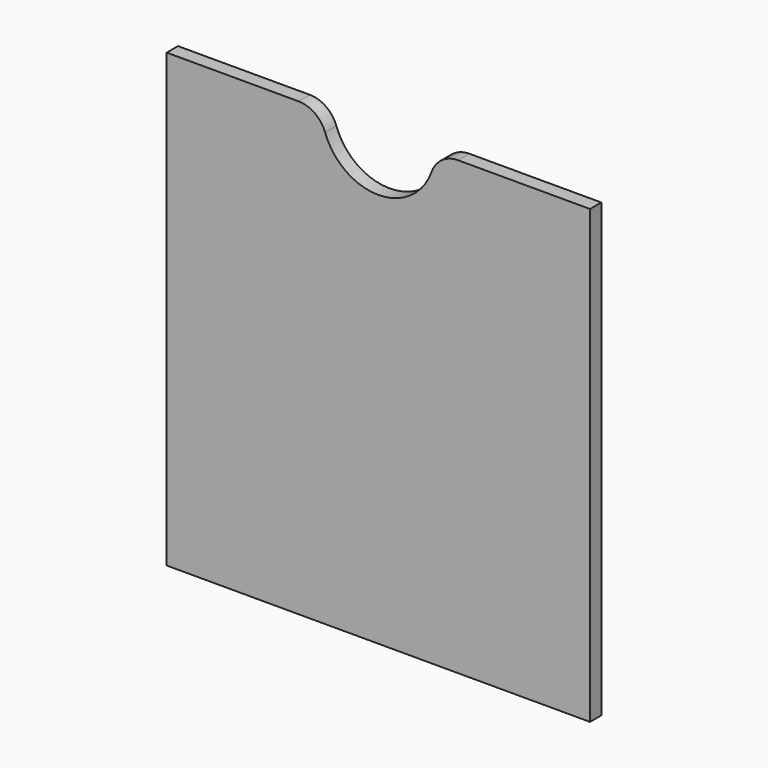
from build123d import *

# Parameters (mm, degrees)
F1_DEPTH = 3.175


with BuildPart() as f1:
    # F0 (on Front) → F1 (new body)
    with BuildSketch(Plane.XZ):
        with BuildLine():
            Line((0, 101.6), (0, 0))
            Line((0, 0), (95.25, 0))
            Line((95.25, 0), (95.25, 101.6))
            Line((95.25, 101.6), (65.585512, 101.6))
            ThreePointArc((65.585512, 101.6), (61.919338, 100.434753), (59.598675, 97.366667))
            ThreePointArc((59.598675, 97.366667), (47.625, 88.9), (35.651325, 97.366667))
            ThreePointArc((35.651325, 97.366667), (33.330662, 100.434753), (29.664488, 101.6))
            Line((29.664488, 101.6), (0, 101.6))
        make_face()
    extrude(amount=F1_DEPTH)


solid = f1.part
